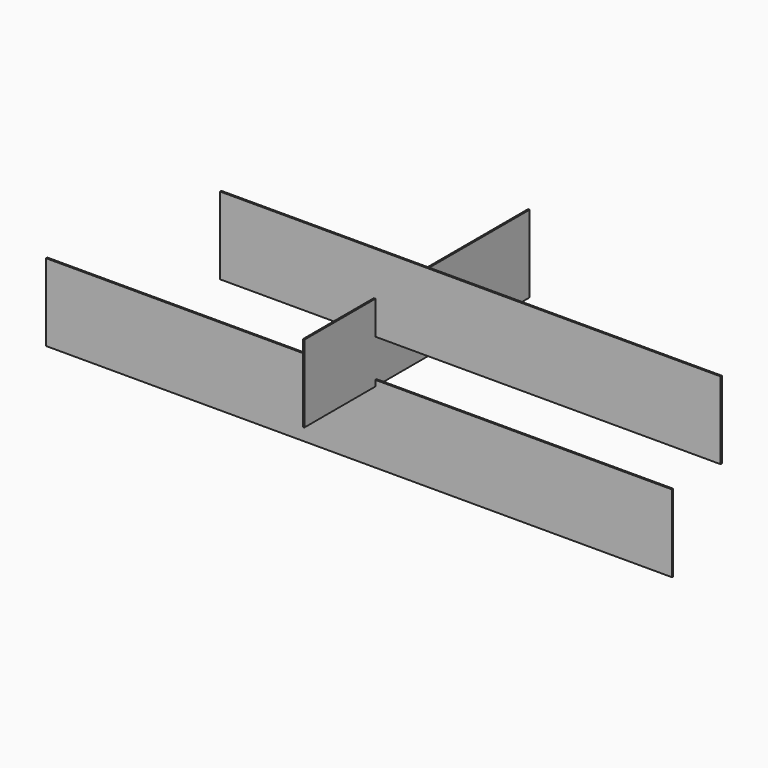
from build123d import *

# Parameters (mm, degrees)
F0_W     = 2000
F0_H     = 247
F1_DEPTH = 5
F2_W     = 900
F2_H     = 247
F4_DEPTH = 5
F3_W     = 1600
F3_H     = 247
F5_DEPTH = 5


with BuildPart() as f1:
    # F0 (on Front) → F1 (new body)
    with BuildSketch(Plane.XZ):
        with Locations((-47.52098, -244.968501)):
            Rectangle(F0_W, F0_H)
    extrude(amount=F1_DEPTH)


with BuildPart() as f4:
    # F2 (on Right) → F4 (new body)
    with BuildSketch(Plane.YZ):
        with Locations((161.015469, -16.507458)):
            Rectangle(F2_W, F2_H)
    extrude(amount=F4_DEPTH)


with BuildPart() as f5:
    # F3 (on Front) → F5 (new body)
    with BuildSketch(Plane.XZ):
        with Locations((308.223587, 123.5)):
            Rectangle(F3_W, F3_H)
    extrude(amount=F5_DEPTH)


solid = Compound([f1.part, f4.part, f5.part])
